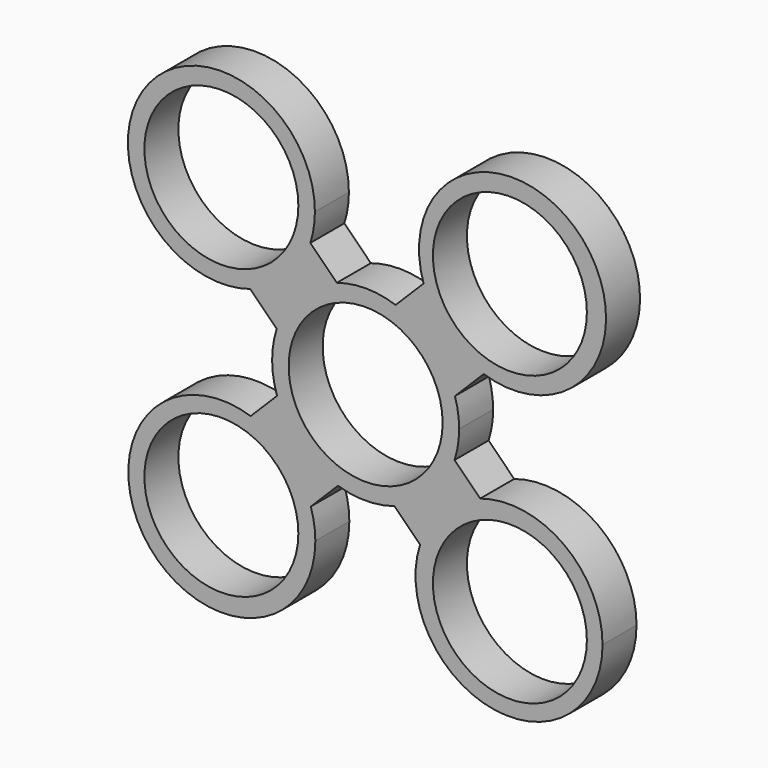
from build123d import *

# Parameters (mm, degrees)
F2_DEPTH = 6.35
F0_R     = 11.5
F3_DEPTH = 6.35


with BuildPart() as f2:
    # F1 (on Front) → F2 (new body)
    with BuildSketch(Plane.XZ):
        with BuildLine():
            ThreePointArc((-17.1744590892, -8.4268107949), (-14.18755457, -9.8021009279), (-11.604867398, -11.8374752247))
            Line((-11.604867398, -11.8374752247), (-9.7612931324, -9.9939009592))
            ThreePointArc((-9.7612931324, -9.9939009592), (-11.8217255366, -7.4436352233), (-13.2310309489, -4.4833826546))
            Line((-13.2310309489, -4.4833826546), (-17.1744590892, -8.4268107949))
        make_face()
        with BuildLine():
            Line((-9.7612931324, -9.9939009592), (-11.604867398, -11.8374752247))
            ThreePointArc((-11.604867398, -11.8374752247), (-9.5694931012, -14.4201623968), (-8.1942029682, -17.407066916))
            Line((-8.1942029682, -17.407066916), (-4.1320595704, -13.3449235182))
            ThreePointArc((-4.1320595704, -13.3449235182), (-7.1458834569, -12.0040513836), (-9.7612931324, -9.9939009592))
        make_face()
        with BuildLine():
            ThreePointArc((-8.1942029682, -17.407066916), (-9.5694931012, -14.4201623968), (-11.604867398, -11.8374752247))
            ThreePointArc((-11.604867398, -11.8374752247), (-14.18755457, -9.8021009279), (-17.1744590892, -8.4268107949))
            Line((-17.1744590892, -8.4268107949), (-25.9732771917, -17.2256288974))
            ThreePointArc((-25.9732771917, -17.2256288974), (-25.9732771917, -26.2058850184), (-16.9930210706, -26.2058850184))
            Line((-16.9930210706, -26.2058850184), (-8.1942029682, -17.407066916))
        make_face()
        with BuildLine():
            ThreePointArc((-13.2310309489, -4.4833826546), (-11.8217255366, -7.4436352233), (-9.7612931324, -9.9939009592))
            Line((-9.7612931324, -9.9939009592), (-4.3689334975, -4.6015413243))
            Line((-4.3689334975, -4.6015413243), (-8.859061558, -0.1114132637))
            Line((-8.859061558, -0.1114132637), (-13.2310309489, -4.4833826546))
        make_face()
        with BuildLine():
            Line((-4.3689334975, -4.6015413243), (-9.7612931324, -9.9939009592))
            ThreePointArc((-9.7612931324, -9.9939009592), (-7.1458834569, -12.0040513836), (-4.1320595704, -13.3449235182))
            Line((-4.1320595704, -13.3449235182), (0.121194563, -9.0916693848))
            Line((0.121194563, -9.0916693848), (-4.3689334975, -4.6015413243))
        make_face()
        with BuildLine():
            ThreePointArc((-7.5131491311, -21.7157569579), (-7.6844629999, -19.534665247), (-8.1942029682, -17.407066916))
            Line((-8.1942029682, -17.407066916), (-16.9930210706, -26.2058850184))
            ThreePointArc((-16.9930210706, -26.2058850184), (-25.9732771917, -26.2058850184), (-25.9732771917, -17.2256288974))
            Line((-25.9732771917, -17.2256288974), (-17.1744590892, -8.4268107949))
            ThreePointArc((-17.1744590892, -8.4268107949), (-32.7825584052, -29.9306367536), (-7.5131491311, -21.7157569579))
        make_face()
        with BuildLine():
            ThreePointArc((-13.2865495499, 4.3160747281), (-13.9697219527, -0.0881394596), (-13.2310309489, -4.4833826546))
            Line((-13.2310309489, -4.4833826546), (-8.859061558, -0.1114132637))
            Line((-8.859061558, -0.1114132637), (-13.2865495499, 4.3160747281))
        make_face()
        with BuildLine():
            Line((0.121194563, -9.0916693848), (-4.1320595704, -13.3449235182))
            ThreePointArc((-4.1320595704, -13.3449235182), (0.0965260308, -13.9696665216), (4.3160747281, -13.2865495499))
            Line((4.3160747281, -13.2865495499), (0.121194563, -9.0916693848))
        make_face()
        with BuildLine():
            Line((-13.2865495499, 4.3160747281), (-8.859061558, -0.1114132637))
            Line((-8.859061558, -0.1114132637), (-4.3689334975, 4.3787147968))
            Line((-4.3689334975, 4.3787147968), (-9.8733898729, 9.8831711722))
            ThreePointArc((-9.8733898729, 9.8831711722), (-11.9098211246, 7.3018532428), (-13.2865495499, 4.3160747281))
        make_face()
        with BuildLine():
            Line((4.6113226236, -4.6015413243), (0.121194563, -9.0916693848))
            Line((0.121194563, -9.0916693848), (4.3160747281, -13.2865495499))
            ThreePointArc((4.3160747281, -13.2865495499), (7.3018532428, -11.9098211246), (9.8831711722, -9.8733898729))
            Line((9.8831711722, -9.8733898729), (4.6113226236, -4.6015413243))
        make_face()
        with BuildLine():
            Line((-17.2396335685, 8.2691587468), (-13.2865495499, 4.3160747281))
            ThreePointArc((-13.2865495499, 4.3160747281), (-11.9098211246, 7.3018532428), (-9.8733898729, 9.8831711722))
            Line((-9.8733898729, 9.8831711722), (-11.6700418773, 11.6798231766))
            ThreePointArc((-11.6700418773, 11.6798231766), (-14.2527290494, 9.6444488798), (-17.2396335685, 8.2691587468))
        make_face()
        with BuildLine():
            ThreePointArc((9.8831711722, -9.8733898729), (7.3018532428, -11.9098211246), (4.3160747281, -13.2865495499))
            Line((4.3160747281, -13.2865495499), (8.1324694601, -17.1029442818))
            ThreePointArc((8.1324694601, -17.1029442818), (9.5077595931, -14.1160397626), (11.5431338899, -11.5333525906))
            Line((11.5431338899, -11.5333525906), (9.8831711722, -9.8733898729))
        make_face()
        with BuildLine():
            Line((0.121194563, 8.8688428573), (4.6113226236, 4.3787147968))
            Line((4.6113226236, 4.3787147968), (9.9939009592, 9.7612931324))
            ThreePointArc((9.9939009592, 9.7612931324), (7.4436352233, 11.8217255366), (4.4833826546, 13.2310309489))
            Line((4.4833826546, 13.2310309489), (0.121194563, 8.8688428573))
        make_face()
        with BuildLine():
            Line((9.9939009592, 9.7612931324), (4.6113226236, 4.3787147968))
            Line((4.6113226236, 4.3787147968), (9.1014506841, -0.1114132637))
            Line((9.1014506841, -0.1114132637), (13.3449235182, 4.1320595704))
            ThreePointArc((13.3449235182, 4.1320595704), (12.0040513836, 7.1458834569), (9.9939009592, 9.7612931324))
        make_face()
        with BuildLine():
            Line((-9.8733898729, 9.8831711722), (-4.3689334975, 4.3787147968))
            Line((-4.3689334975, 4.3787147968), (0.121194563, 8.8688428573))
            Line((0.121194563, 8.8688428573), (-4.3013019294, 13.2913393498))
            ThreePointArc((-4.3013019294, 13.2913393498), (-7.2893329259, 11.9174882209), (-9.8733898729, 9.8831711722))
        make_face()
        with BuildLine():
            Line((9.1014506841, -0.1114132637), (4.6113226236, -4.6015413243))
            Line((4.6113226236, -4.6015413243), (9.8831711722, -9.8733898729))
            ThreePointArc((9.8831711722, -9.8733898729), (11.9174882209, -7.2893329259), (13.2913393498, -4.3013019294))
            Line((13.2913393498, -4.3013019294), (9.1014506841, -0.1114132637))
        make_face()
        with BuildLine():
            ThreePointArc((-7.5783236105, 21.5581049098), (-32.8477328845, 29.7729847054), (-17.2396335685, 8.2691587468))
            Line((-17.2396335685, 8.2691587468), (-26.038451671, 17.0679768492))
            ThreePointArc((-26.038451671, 17.0679768492), (-26.038451671, 26.0482329703), (-17.0581955499, 26.0482329703))
            Line((-17.0581955499, 26.0482329703), (-8.2593774475, 17.2494148678))
            ThreePointArc((-8.2593774475, 17.2494148678), (-7.7496374792, 19.3770131988), (-7.5783236105, 21.5581049098))
        make_face()
        with BuildLine():
            Line((-26.038451671, 17.0679768492), (-17.2396335685, 8.2691587468))
            ThreePointArc((-17.2396335685, 8.2691587468), (-14.2527290494, 9.6444488798), (-11.6700418773, 11.6798231766))
            ThreePointArc((-11.6700418773, 11.6798231766), (-9.6346675805, 14.2625103486), (-8.2593774475, 17.2494148678))
            Line((-8.2593774475, 17.2494148678), (-17.0581955499, 26.0482329703))
            ThreePointArc((-17.0581955499, 26.0482329703), (-26.038451671, 26.0482329703), (-26.038451671, 17.0679768492))
        make_face()
        with BuildLine():
            Line((-11.6700418773, 11.6798231766), (-9.8733898729, 9.8831711722))
            ThreePointArc((-9.8733898729, 9.8831711722), (-7.2893329259, 11.9174882209), (-4.3013019294, 13.2913393498))
            Line((-4.3013019294, 13.2913393498), (-8.2593774475, 17.2494148678))
            ThreePointArc((-8.2593774475, 17.2494148678), (-9.6346675805, 14.2625103486), (-11.6700418773, 11.6798231766))
        make_face()
        with BuildLine():
            ThreePointArc((11.5431338899, -11.5333525906), (9.5077595931, -14.1160397626), (8.1324694601, -17.1029442818))
            Line((8.1324694601, -17.1029442818), (16.9312875625, -25.9017623843))
            ThreePointArc((16.9312875625, -25.9017623843), (25.9115436836, -25.9017623843), (25.9115436836, -16.9215062632))
            Line((25.9115436836, -16.9215062632), (17.1127255811, -8.1226881608))
            ThreePointArc((17.1127255811, -8.1226881608), (14.1258210619, -9.4979782938), (11.5431338899, -11.5333525906))
        make_face()
        with BuildLine():
            Line((16.9312875625, -25.9017623843), (8.1324694601, -17.1029442818))
            ThreePointArc((8.1324694601, -17.1029442818), (19.2403239121, -35.210320455), (35.391415623, -21.4116343238))
            ThreePointArc((35.391415623, -21.4116343238), (29.6362954187, -10.1122250497), (17.1127255811, -8.1226881608))
            Line((17.1127255811, -8.1226881608), (25.9115436836, -16.9215062632))
            ThreePointArc((25.9115436836, -16.9215062632), (25.9115436836, -25.9017623843), (16.9312875625, -25.9017623843))
        make_face()
        with BuildLine():
            ThreePointArc((13.2913393498, -4.3013019294), (11.9174882209, -7.2893329259), (9.8831711722, -9.8733898729))
            Line((9.8831711722, -9.8733898729), (11.5431338899, -11.5333525906))
            ThreePointArc((11.5431338899, -11.5333525906), (14.1258210619, -9.4979782938), (17.1127255811, -8.1226881608))
            Line((17.1127255811, -8.1226881608), (13.2913393498, -4.3013019294))
        make_face()
        with BuildLine():
            ThreePointArc((4.4833826546, 13.2310309489), (7.4436352233, 11.8217255366), (9.9939009592, 9.7612931324))
            Line((9.9939009592, 9.7612931324), (12.0679486716, 11.8353408449))
            ThreePointArc((12.0679486716, 11.8353408449), (10.0325743748, 14.4180280169), (8.6572842418, 17.4049325361))
            Line((8.6572842418, 17.4049325361), (4.4833826546, 13.2310309489))
        make_face()
        with BuildLine():
            Line((12.0679486716, 11.8353408449), (9.9939009592, 9.7612931324))
            ThreePointArc((9.9939009592, 9.7612931324), (12.0040513836, 7.1458834569), (13.3449235182, 4.1320595704))
            Line((13.3449235182, 4.1320595704), (17.6375403629, 8.424676415))
            ThreePointArc((17.6375403629, 8.424676415), (14.6506358437, 9.7999665481), (12.0679486716, 11.8353408449))
        make_face()
        with BuildLine():
            Line((-4.3013019294, 13.2913393498), (0.121194563, 8.8688428573))
            Line((0.121194563, 8.8688428573), (4.4833826546, 13.2310309489))
            ThreePointArc((4.4833826546, 13.2310309489), (0.0959042409, 13.9696708042), (-4.3013019294, 13.2913393498))
        make_face()
        with BuildLine():
            Line((13.3449235182, 4.1320595704), (9.1014506841, -0.1114132637))
            Line((9.1014506841, -0.1114132637), (13.2913393498, -4.3013019294))
            ThreePointArc((13.2913393498, -4.3013019294), (13.7992918426, -2.1772562186), (13.97, 0))
            ThreePointArc((13.97, 0), (13.8128469468, 2.0895356482), (13.3449235182, 4.1320595704))
        make_face()
        with BuildLine():
            ThreePointArc((8.6572842418, 17.4049325361), (10.0325743748, 14.4180280169), (12.0679486716, 11.8353408449))
            ThreePointArc((12.0679486716, 11.8353408449), (14.6506358437, 9.7999665481), (17.6375403629, 8.424676415))
            Line((17.6375403629, 8.424676415), (26.4363584653, 17.2234945175))
            ThreePointArc((26.4363584653, 17.2234945175), (26.4363584653, 26.2037506386), (17.4561023443, 26.2037506386))
            Line((17.4561023443, 26.2037506386), (8.6572842418, 17.4049325361))
        make_face()
        with BuildLine():
            ThreePointArc((35.9162304048, 21.713622578), (19.7651386938, 35.5123087093), (8.6572842418, 17.4049325361))
            Line((8.6572842418, 17.4049325361), (17.4561023443, 26.2037506386))
            ThreePointArc((17.4561023443, 26.2037506386), (26.4363584653, 26.2037506386), (26.4363584653, 17.2234945175))
            Line((26.4363584653, 17.2234945175), (17.6375403629, 8.424676415))
            ThreePointArc((17.6375403629, 8.424676415), (30.1611102005, 10.414213304), (35.9162304048, 21.713622578))
        make_face()
    extrude(amount=F2_DEPTH)

    # F0 (on Front) → F3 (cut)
    with BuildSketch(Plane.XZ):
        Circle(F0_R)
        with Locations((21.5526146906, -21.5526146906)):
            Circle(F0_R)
        with Locations((-21.5526146906, -21.5526146906)):
            Circle(F0_R)
        with Locations((-21.5526146906, 21.5526146906)):
            Circle(F0_R)
        with Locations((21.5526146906, 21.5526146906)):
            Circle(F0_R)
    extrude(amount=F3_DEPTH, mode=Mode.SUBTRACT)


solid = f2.part
